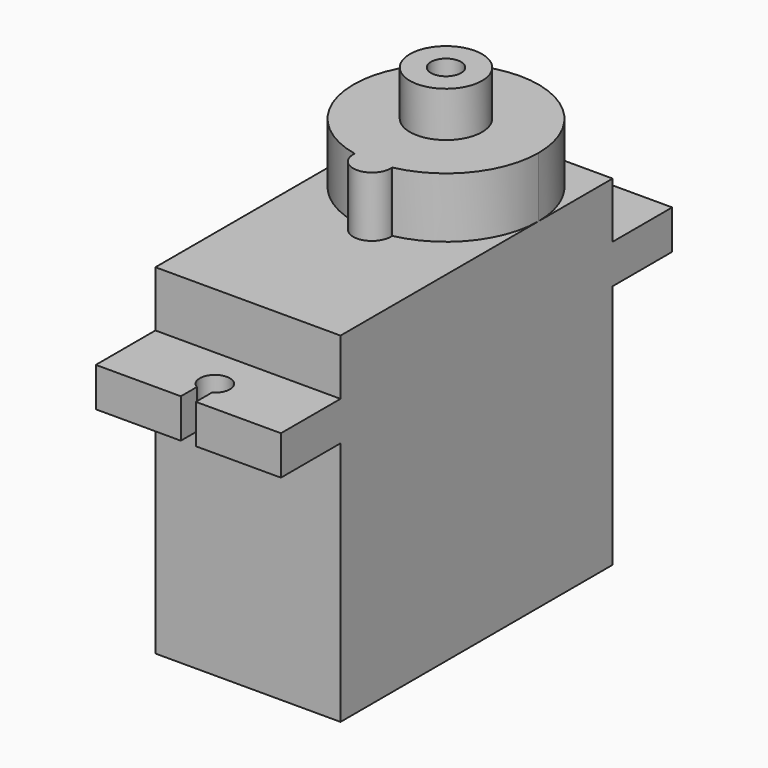
from build123d import *

# Parameters (mm, degrees)
F0_W     = 12.3
F0_H     = 22.6
F1_DEPTH = 16.3
F2_W     = 12.3
F2_H     = 22.6
F3_DEPTH = 2.6
F4_W     = 12.3
F4_H     = 22.6
F5_DEPTH = 3.7
F7_DEPTH = 4
F8_R     = 2.4
F8_R_2   = 1
F9_DEPTH = 3


with BuildPart() as f1:
    # F0 (on Top) → F1 (new body)
    with BuildSketch(Plane.XY):
        Rectangle(F0_W, F0_H)
    extrude(amount=F1_DEPTH)

    # F2 (on face) → F3 (join)
    with BuildSketch(Plane.XY.offset(16.3)):
        with BuildLine():
            Line((-6.15, 16.25), (-6.15, 11.3))
            Line((-6.15, 11.3), (6.15, 11.3))
            Line((6.15, 11.3), (6.15, 16.25))
            Line((6.15, 16.25), (0.5, 16.25))
            Line((0.5, 16.25), (0.5, 14.9160254038))
            ThreePointArc((0.5, 14.9160254038), (0.8660254038, 14.55), (1, 14.05))
            ThreePointArc((1, 14.05), (-0.5, 13.1839745962), (-0.5, 14.9160254038))
            Line((-0.5, 14.9160254038), (-0.5, 16.25))
            Line((-0.5, 16.25), (-6.15, 16.25))
        make_face()
        Rectangle(F2_W, F2_H)
        with BuildLine():
            Line((6.15, -11.3), (-6.15, -11.3))
            Line((-6.15, -11.3), (-6.15, -16.25))
            Line((-6.15, -16.25), (-0.5, -16.25))
            Line((-0.5, -16.25), (-0.5, -14.9160254038))
            ThreePointArc((-0.5, -14.9160254038), (-0.5, -13.1839745962), (1, -14.05))
            ThreePointArc((1, -14.05), (0.8660254038, -14.55), (0.5, -14.9160254038))
            Line((0.5, -14.9160254038), (0.5, -16.25))
            Line((0.5, -16.25), (6.15, -16.25))
            Line((6.15, -16.25), (6.15, -11.3))
        make_face()
    extrude(amount=F3_DEPTH)

    # F4 (on face) → F5 (join)
    with BuildSketch(Plane.XY.offset(18.9)):
        Rectangle(F4_W, F4_H)
    extrude(amount=F5_DEPTH)

    # F6 (on face) → F7 (join)
    with BuildSketch(Plane.XY.offset(22.6)):
        with BuildLine():
            ThreePointArc((1.2435283426, -0.8729674797), (4.7681337705, 1.265749706), (6.15, 5.15))
            ThreePointArc((6.15, 5.15), (4.3487067043, 9.4987067043), (0, 11.3))
            ThreePointArc((0, 11.3), (-4.3487067043, 9.4987067043), (-6.15, 5.15))
            ThreePointArc((-6.15, 5.15), (-4.7681337705, 1.265749706), (-1.2435283426, -0.8729674797))
            ThreePointArc((-1.2435283426, -0.8729674797), (0, 0.25), (1.2435283426, -0.8729674797))
        make_face()
        with BuildLine():
            ThreePointArc((1.25, -1), (1.2483810372, -0.9364013688), (1.2435283426, -0.8729674797))
            ThreePointArc((1.2435283426, -0.8729674797), (0, -1), (-1.2435283426, -0.8729674797))
            ThreePointArc((-1.2435283426, -0.8729674797), (-0.0635986312, -2.2483810372), (1.25, -1))
        make_face()
        with BuildLine():
            ThreePointArc((-1.2435283426, -0.8729674797), (0, -1), (1.2435283426, -0.8729674797))
            ThreePointArc((1.2435283426, -0.8729674797), (0, 0.25), (-1.2435283426, -0.8729674797))
        make_face()
    extrude(amount=F7_DEPTH)


with BuildPart() as f9:
    # F8 (on face) → F9 (new body)
    with BuildSketch(Plane.XY.offset(26.6)):
        with Locations((0, 5.15)):
            Circle(F8_R)
        with Locations((0, 5.15)):
            Circle(F8_R_2, mode=Mode.SUBTRACT)
    extrude(amount=F9_DEPTH)


solid = Compound([f1.part, f9.part])
